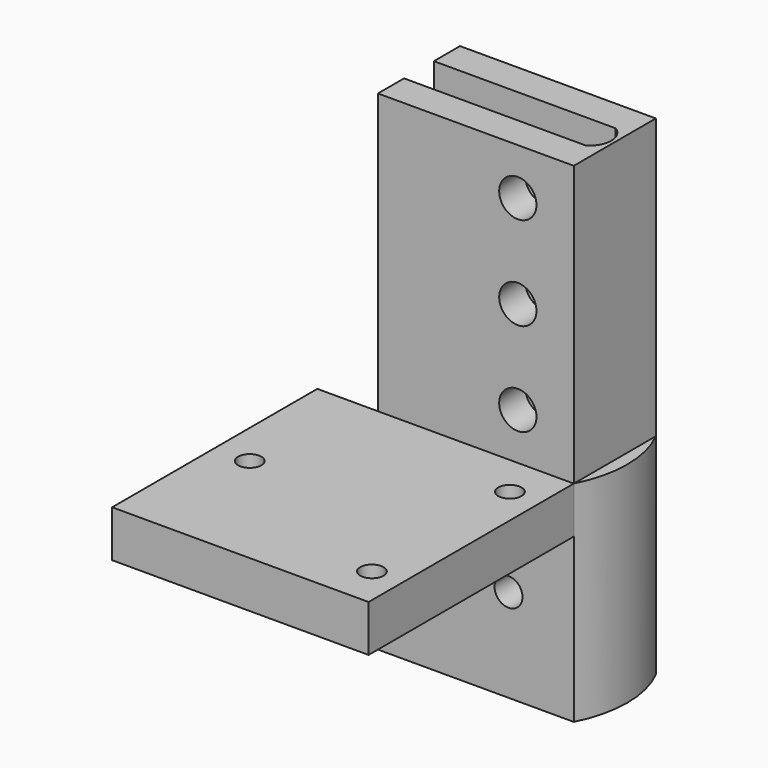
from build123d import *

# Parameters (mm, degrees)
PAD_DEPTH       = 45
SKETCH001_W     = 55
SKETCH001_H     = 10
PAD001_DEPTH    = 55
SKETCH002_R     = 3
POCKET_DEPTH    = 22
SKETCH003_R     = 2.5
POCKET001_DEPTH = 10
PAD002_DEPTH    = 60
SKETCH005_R     = 4
POCKET002_DEPTH = 22


with BuildPart() as part:
    # Sketch → Pad (new body)
    with BuildSketch(Plane.XY):
        with BuildLine():
            Line((0, 22), (42, 22))
            ThreePointArc((42, 0), (44.669271, 11), (42, 22))
            Line((42, 0), (0, 0))
            Line((0, 7), (0, 0))
            Line((38.9, 7), (0, 7))
            ThreePointArc((38.9, 7), (41.228437, 11), (38.9, 15))
            Line((0, 15), (38.9, 15))
            Line((0, 22), (0, 15))
        make_face()
    extrude(amount=PAD_DEPTH)

    # Sketch001 (on Face4 of Pad) → Pad001 (join)
    with BuildSketch(Plane.XZ):
        with Locations((14.5, 40)):
            Rectangle(SKETCH001_W, SKETCH001_H)
    extrude(amount=PAD001_DEPTH)

    # Sketch002 (on Face8 of Pad001) → Pocket (cut)
    with BuildSketch(Plane.XZ):
        with Locations((28, 20)):
            Circle(SKETCH002_R)
    extrude(amount=-POCKET_DEPTH, mode=Mode.SUBTRACT)

    # Sketch003 (on Face12 of Pocket) → Pocket001 (cut)
    with BuildSketch(Plane.XY.offset(45)):
        with Locations((35.5, -9)):
            Circle(SKETCH003_R)
        with Locations((35.5, -46)):
            Circle(SKETCH003_R)
        with Locations((-5.5, -27.5)):
            Circle(SKETCH003_R)
    extrude(amount=-POCKET001_DEPTH, mode=Mode.SUBTRACT)

    # Sketch004 (on Face5 of Pocket001) → Pad002 (join)
    with BuildSketch(Plane.XY.offset(45)):
        with BuildLine():
            Line((0, 22), (42, 22))
            Line((42, 22), (42, 0))
            Line((42, 0), (0, 0))
            Line((0, 0), (0, 7))
            Line((0, 7), (39, 7))
            ThreePointArc((39, 7), (41.232207, 11), (39, 15))
            Line((39, 15), (0, 15))
            Line((0, 15), (0, 22))
        make_face()
    extrude(amount=PAD002_DEPTH)

    # Sketch005 (on Face6 of Pad002) → Pocket002 (cut)
    with BuildSketch(Plane(origin=(0, 22, 0), x_dir=(-1, 0, 0), z_dir=(0, 1, 0))):
        with Locations((-30, 55)):
            Circle(SKETCH005_R)
        with Locations((-30, 75)):
            Circle(SKETCH005_R)
        with Locations((-30, 95)):
            Circle(SKETCH005_R)
    extrude(amount=-POCKET002_DEPTH, mode=Mode.SUBTRACT)


solid = part.part
